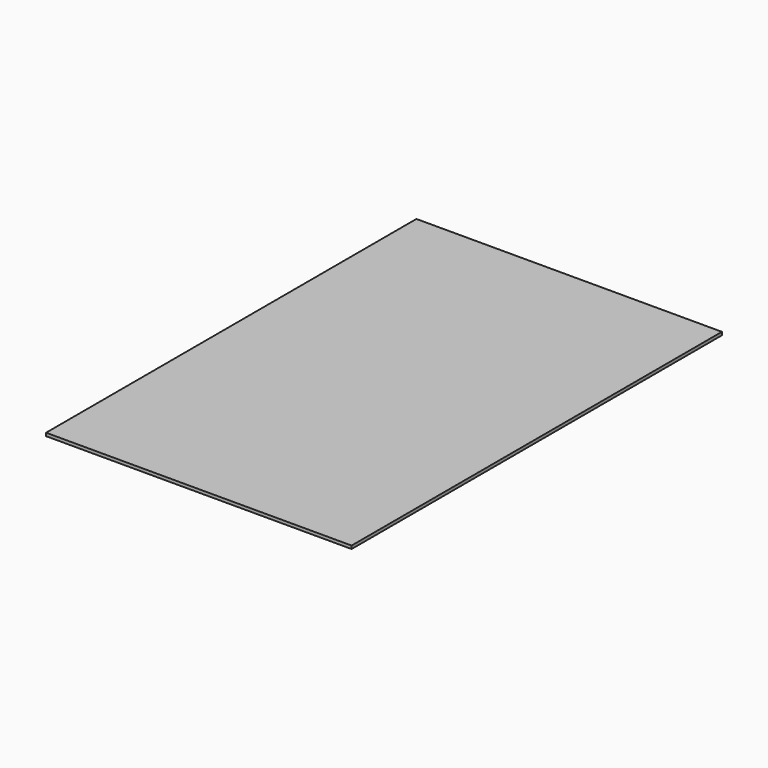
from build123d import *

# Parameters (mm, degrees)
F0_W     = 99
F0_H     = 150
F1_DEPTH = 1
F3_DEPTH = 25


with BuildPart() as f1:
    # F0 (on Top) → F1 (new body)
    with BuildSketch(Plane.XY):
        with Locations((2.834278, -19.827651)):
            Rectangle(F0_W, F0_H)
    extrude(amount=F1_DEPTH)

    # F2 (on Top) → F3 (cut)
    with BuildSketch(Plane.XY):
        Polygon((-38.009576, 33.133902), (-46.665722, 38.539708), (-69.092967, 24.011603), (-45.173336, 0), (-38.009576, 4.753417), (-46.665722, 7.794184), (-38.009576, 13.537853), (-46.665722, 18.267933), (-38.009576, 24.011603), (-46.665722, 27.390232), align=None)
    extrude(amount=-F3_DEPTH, mode=Mode.SUBTRACT)


solid = f1.part
